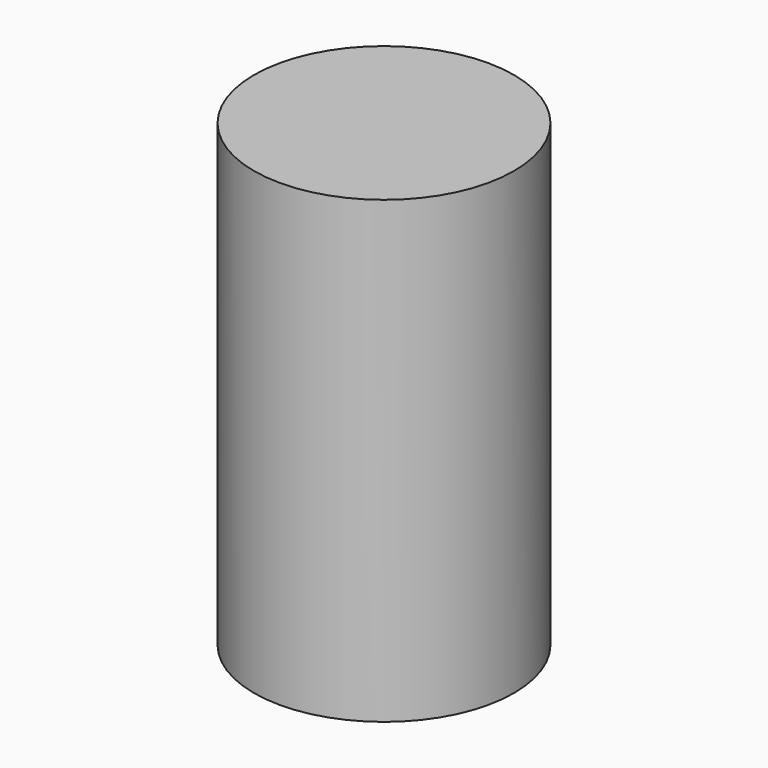
from build123d import *

# Parameters (mm, degrees)
F0_R     = 495
F0_R_2   = 395
F1_DEPTH = 1750
F3_R     = 20
F4_DEPTH = 20


with BuildPart() as f1:
    # F0 (on Top) → F1 (new body)
    with BuildSketch(Plane.XY):
        Circle(F0_R)
        Circle(F0_R_2, mode=Mode.SUBTRACT)
        Circle(F0_R_2)
    extrude(amount=F1_DEPTH)


with BuildPart() as f4:
    # F3 (on offset) → F4 (new body)
    with BuildSketch(Plane.YZ.offset(450)):
        with Locations((0, 320)):
            Circle(F3_R)
        with Locations((0, 1370)):
            Circle(F3_R)
    extrude(amount=-F4_DEPTH)


solid = Compound([f1.part, f4.part])
